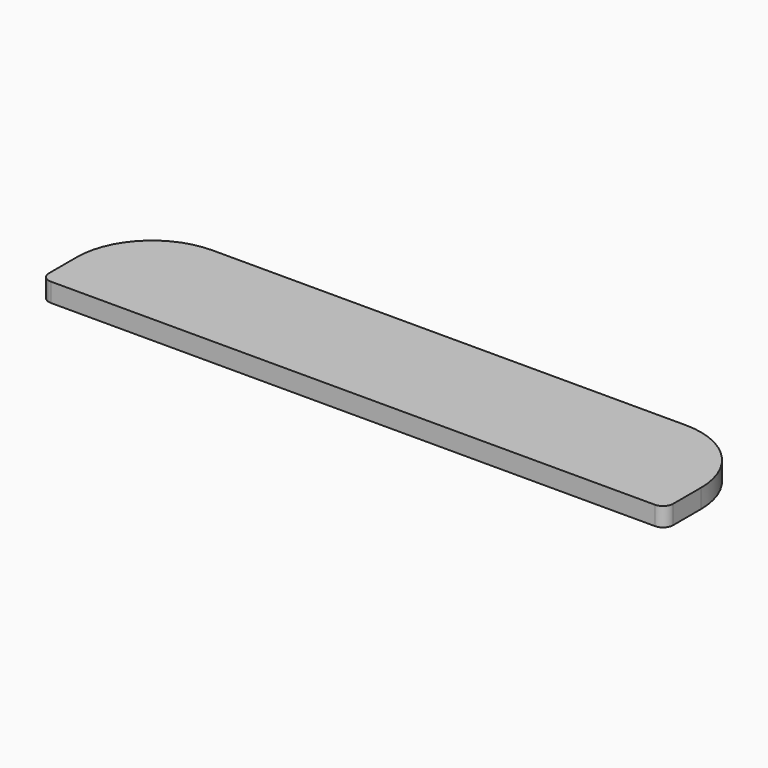
from build123d import *

# Parameters (mm, degrees)
F1_DEPTH = 5
F2_R     = 2.655635
F3_R     = 2.656


with BuildPart() as f1:
    # F0 (on Top) → F1 (new body)
    with BuildSketch(Plane.XY):
        with BuildLine():
            Line((-82.867503, -15.946694), (82.867503, -15.946694))
            Line((82.867503, -15.946694), (82.867503, -4.053306))
            ThreePointArc((82.867503, -4.053306), (77.009639, 10.088829), (62.867503, 15.946694))
            Line((62.867503, 15.946694), (-62.867503, 15.946694))
            ThreePointArc((-62.867503, 15.946694), (-77.009639, 10.088829), (-82.867503, -4.053306))
            Line((-82.867503, -4.053306), (-82.867503, -15.946694))
        make_face()
    extrude(amount=F1_DEPTH)

    # F2
    f2_edges = [f1.edges().sort_by_distance(p)[0] for p in [
        (-82.867503, -15.946694, 2.5),
    ]]
    fillet(f2_edges, radius=F2_R)

    # F3
    f3_edges = [f1.edges().sort_by_distance(p)[0] for p in [
        (82.867503, -15.946694, 2.5),
    ]]
    fillet(f3_edges, radius=F3_R)


solid = f1.part
